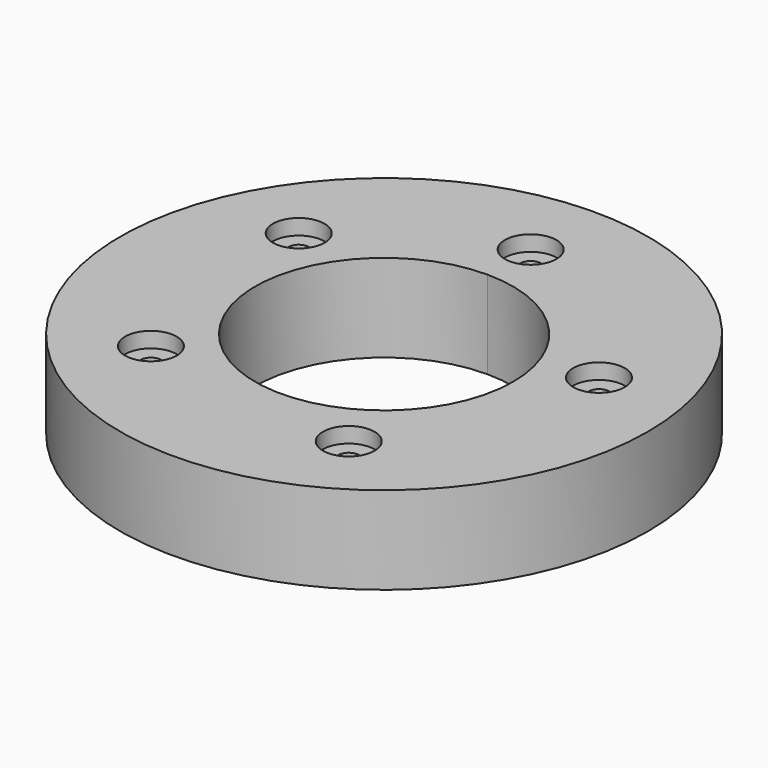
from build123d import *

# Parameters (mm, degrees)
F0_R     = 51.145
F0_R_2   = 2
F1_DEPTH = 17
F2_R     = 5
F2_R_2   = 2
F3_DEPTH = 3


with BuildPart() as f1:
    # F0 (on Top) → F1 (new body)
    with BuildSketch(Plane.XY):
        Circle(F0_R)
        with Locations((-25.102291, -25.102291)):
            Circle(F0_R_2, mode=Mode.SUBTRACT)
        with BuildLine():
            ThreePointArc((0, 25), (17.67767, 17.67767), (25, 0))
            ThreePointArc((25, 0), (-17.67767, -17.67767), (0, 25))
        make_face(mode=Mode.SUBTRACT)
        with Locations((17.75, -30.743902)):
            Circle(F0_R_2, mode=Mode.SUBTRACT)
        with Locations((-30.743902, 17.75)):
            Circle(F0_R_2, mode=Mode.SUBTRACT)
        with Locations((0, 35.5)):
            Circle(F0_R_2, mode=Mode.SUBTRACT)
        with Locations((34.290367, 9.188076)):
            Circle(F0_R_2, mode=Mode.SUBTRACT)
    extrude(amount=F1_DEPTH)

    # F2 (on face) → F3 (cut)
    with BuildSketch(Plane.XY.offset(17)):
        with Locations((0, 35.5)):
            Circle(F2_R)
        with Locations((0, 35.5)):
            Circle(F2_R_2, mode=Mode.SUBTRACT)
        with Locations((-30.743902, 17.75)):
            Circle(F2_R)
        with Locations((-30.743902, 17.75)):
            Circle(F2_R_2, mode=Mode.SUBTRACT)
        with Locations((-25.102291, -25.102291)):
            Circle(F2_R)
        with Locations((-25.102291, -25.102291)):
            Circle(F2_R_2, mode=Mode.SUBTRACT)
        with Locations((17.75, -30.743902)):
            Circle(F2_R)
        with Locations((17.75, -30.743902)):
            Circle(F2_R_2, mode=Mode.SUBTRACT)
        with Locations((34.290367, 9.188076)):
            Circle(F2_R)
        with Locations((34.290367, 9.188076)):
            Circle(F2_R_2, mode=Mode.SUBTRACT)
    extrude(amount=-F3_DEPTH, mode=Mode.SUBTRACT)


solid = f1.part
